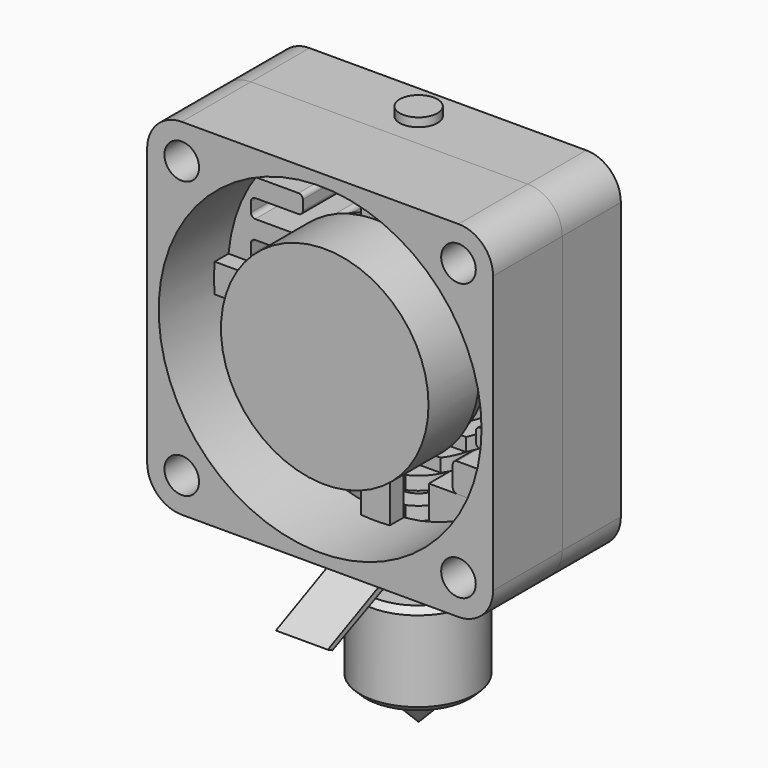
from build123d import *

# Parameters (mm, degrees)
SKETCH_R             = 14
SKETCH_R_2           = 1.5
PAD_DEPTH            = 7.5
PAD001_DEPTH         = 1.5
SKETCH002_R          = 9
PAD002_DEPTH         = 5.5
SKETCH004_R          = 1.5
PAD003_DEPTH         = 6.35
SKETCH005_R          = 1.225
POCKET_DEPTH         = 15.001
PAD004_DEPTH         = 6.35
SKETCH008_W          = 62.371654
SKETCH008_H          = 35.565962
SKETCH008_W_2        = 46.1
SKETCH008_H_2        = 6.35
POCKET001_DEPTH      = 60
POCKET001_DEPTH_BACK = 60
CHAMFER_SIZE         = 0.5
PAD005_DEPTH         = 2.25
PAD005_DEPTH_BACK    = 2.25
SKETCH011_W          = 1.977832
SKETCH011_H          = 8.288762
POCKET002_DEPTH      = 20.115598
SKETCH012_R          = 4.982423
SKETCH012_R_2        = 2.386074
PAD006_DEPTH         = 8
CHAMFER001_SIZE      = 0.5


with BuildPart() as fan:
    # Sketch → Pad (new body)
    with BuildSketch(Plane.XZ):
        with BuildLine():
            Line((-15, -12), (-15, 12))
            ThreePointArc((-12, 15), (-14.12132, 14.12132), (-15, 12))
            Line((-12, 15), (12, 15))
            ThreePointArc((15, 12), (14.12132, 14.12132), (12, 15))
            Line((15, 12), (15, -12))
            ThreePointArc((12, -15), (14.12132, -14.12132), (15, -12))
            Line((12, -15), (-12, -15))
            ThreePointArc((-15, -12), (-14.12132, -14.12132), (-12, -15))
        make_face()
        Circle(SKETCH_R, mode=Mode.SUBTRACT)
        with Locations((-12, 12)):
            Circle(SKETCH_R_2, mode=Mode.SUBTRACT)
        with Locations((12, 12)):
            Circle(SKETCH_R_2, mode=Mode.SUBTRACT)
        with Locations((12, -12)):
            Circle(SKETCH_R_2, mode=Mode.SUBTRACT)
        with Locations((-12, -12)):
            Circle(SKETCH_R_2, mode=Mode.SUBTRACT)
    extrude(amount=PAD_DEPTH)

    # Sketch001 → Pad001 (join)
    with BuildSketch(Plane.XZ):
        with BuildLine():
            ThreePointArc((-8.407586, -1.25), (-6.010408, -6.010408), (-1.25, -8.407586))
            Line((-1.25, -14.75), (-1.25, -8.407586))
            Line((1.25, -14.75), (-1.25, -14.75))
            Line((1.25, -8.407586), (1.25, -14.75))
            ThreePointArc((1.25, -8.407586), (6.010408, -6.010408), (8.407586, -1.25))
            Line((14.75, -1.25), (8.407586, -1.25))
            Line((14.75, 1.25), (14.75, -1.25))
            Line((8.407586, 1.25), (14.75, 1.25))
            ThreePointArc((8.407586, 1.25), (6.010408, 6.010408), (1.25, 8.407586))
            Line((1.25, 14.75), (1.25, 8.407586))
            Line((-1.25, 14.75), (1.25, 14.75))
            Line((-1.25, 8.407586), (-1.25, 14.75))
            ThreePointArc((-1.25, 8.407586), (-6.010408, 6.010408), (-8.407586, 1.25))
            Line((-14.75, 1.25), (-8.407586, 1.25))
            Line((-14.75, -1.25), (-14.75, 1.25))
            Line((-8.407586, -1.25), (-14.75, -1.25))
        make_face()
    extrude(amount=PAD001_DEPTH)

    # Sketch002 (on Face21 of Pad001) → Pad002 (join)
    with BuildSketch(Plane.XZ.offset(1.5)):
        Circle(SKETCH002_R)
    extrude(amount=PAD002_DEPTH)


with BuildPart() as main_body:
    # Sketch004 → Pad003 (new body)
    with BuildSketch(Plane.XZ):
        with BuildLine():
            ThreePointArc((5.5, -14.625), (5.609835, -14.890165), (5.875, -15))
            Line((5.875, -15), (12, -15))
            ThreePointArc((12, -15), (14.12132, -14.12132), (15, -12))
            Line((15, -12), (15, 12))
            ThreePointArc((15, 12), (14.12132, 14.12132), (12, 15))
            Line((12, 15), (0, 15))
            Line((0, 15), (-12, 15))
            ThreePointArc((-12, 15), (-14.12132, 14.12132), (-15, 12))
            Line((-15, 12), (-15, -12))
            ThreePointArc((-15, -12), (-14.12132, -14.12132), (-12, -15))
            Line((-12, -15), (-5.875, -15))
            ThreePointArc((-5.875, -15), (-5.609835, -14.890165), (-5.5, -14.625))
            Line((-5.5, -14.625), (-5.5, -13.375))
            ThreePointArc((-5.5, -13.375), (-5.609835, -13.109835), (-5.875, -13))
            Line((-5.875, -13), (-8.5, -13))
            Line((-8.5, -13), (-8.5, -10.65))
            Line((-8.5, -10.65), (-5.875, -10.65))
            ThreePointArc((-5.875, -10.65), (-5.609835, -10.540165), (-5.5, -10.275))
            Line((-5.5, -10.275), (-5.5, -8.525))
            ThreePointArc((-5.5, -8.525), (-5.609835, -8.259835), (-5.875, -8.15))
            Line((-5.875, -8.15), (-11.625, -8.15))
            ThreePointArc((-11.625, -8.15), (-11.890165, -8.040165), (-12, -7.775))
            Line((-12, -7.775), (-12, -6.925))
            ThreePointArc((-12, -6.925), (-11.890165, -6.659835), (-11.625, -6.55))
            Line((-11.625, -6.55), (-7.875, -6.55))
            ThreePointArc((-7.875, -6.55), (-7.609835, -6.440165), (-7.5, -6.175))
            Line((-7.5, -6.175), (-7.5, -5.325))
            ThreePointArc((-7.5, -5.325), (-7.609835, -5.059835), (-7.875, -4.95))
            Line((-7.875, -4.95), (-11.625, -4.95))
            ThreePointArc((-11.625, -4.95), (-11.890165, -4.840165), (-12, -4.575))
            Line((-12, -4.575), (-12, -3.725))
            ThreePointArc((-12, -3.725), (-11.890165, -3.459835), (-11.625, -3.35))
            Line((-11.625, -3.35), (-7.875, -3.35))
            ThreePointArc((-7.875, -3.35), (-7.609835, -3.240165), (-7.5, -2.975))
            Line((-7.5, -2.975), (-7.5, -2.125))
            ThreePointArc((-7.5, -2.125), (-7.609835, -1.859835), (-7.875, -1.75))
            Line((-7.875, -1.75), (-11.625, -1.75))
            ThreePointArc((-11.625, -1.75), (-11.890165, -1.640165), (-12, -1.375))
            Line((-12, -1.375), (-12, -0.525))
            ThreePointArc((-12, -0.525), (-11.890165, -0.259835), (-11.625, -0.15))
            Line((-11.625, -0.15), (-7.875, -0.15))
            ThreePointArc((-7.875, -0.15), (-7.609835, -0.040165), (-7.5, 0.225))
            Line((-7.5, 0.225), (-7.5, 1.075))
            ThreePointArc((-7.5, 1.075), (-7.609835, 1.340165), (-7.875, 1.45))
            Line((-7.875, 1.45), (-11.625, 1.45))
            ThreePointArc((-11.625, 1.45), (-11.890165, 1.559835), (-12, 1.825))
            Line((-12, 1.825), (-12, 2.675))
            ThreePointArc((-12, 2.675), (-11.890165, 2.940165), (-11.625, 3.05))
            Line((-11.625, 3.05), (-7.875, 3.05))
            ThreePointArc((-7.875, 3.05), (-7.609835, 3.159835), (-7.5, 3.425))
            Line((-7.5, 3.425), (-7.5, 4.275))
            ThreePointArc((-7.5, 4.275), (-7.609835, 4.540165), (-7.875, 4.65))
            Line((-7.875, 4.65), (-11.625, 4.65))
            ThreePointArc((-11.625, 4.65), (-11.890165, 4.759835), (-12, 5.025))
            Line((-12, 5.025), (-12, 5.875))
            ThreePointArc((-12, 5.875), (-11.890165, 6.140165), (-11.625, 6.25))
            Line((-11.625, 6.25), (-7.875, 6.25))
            ThreePointArc((-7.875, 6.25), (-7.609835, 6.359835), (-7.5, 6.625))
            Line((-7.5, 6.625), (-7.5, 7.475))
            ThreePointArc((-7.5, 7.475), (-7.609835, 7.740165), (-7.875, 7.85))
            Line((-7.875, 7.85), (-11.625, 7.85))
            ThreePointArc((-11.625, 7.85), (-11.890165, 7.959835), (-12, 8.225))
            Line((-12, 8.225), (-12, 8.325765))
            ThreePointArc((-12, 8.325765), (-11.830948, 8.800107), (-11.4, 9.060612))
            ThreePointArc((-11.4, 9.060612), (-10.030524, 9.737001), (-9.171573, 11))
            ThreePointArc((-9.171573, 11), (-8.897479, 11.362372), (-8.464466, 11.5))
            Line((-8.464466, 11.5), (0, 11.5))
            Line((0, 11.5), (8.464466, 11.5))
            ThreePointArc((8.464466, 11.5), (8.897479, 11.362372), (9.171573, 11))
            ThreePointArc((9.171573, 11), (10.030524, 9.737001), (11.4, 9.060612))
            ThreePointArc((11.4, 9.060612), (11.830948, 8.800107), (12, 8.325765))
            Line((12, 8.325765), (12, 8.225))
            ThreePointArc((12, 8.225), (11.890165, 7.959835), (11.625, 7.85))
            Line((11.625, 7.85), (7.875, 7.85))
            ThreePointArc((7.875, 7.85), (7.609835, 7.740165), (7.5, 7.475))
            Line((7.5, 7.475), (7.5, 6.625))
            ThreePointArc((7.5, 6.625), (7.609835, 6.359835), (7.875, 6.25))
            Line((7.875, 6.25), (11.625, 6.25))
            ThreePointArc((11.625, 6.25), (11.890165, 6.140165), (12, 5.875))
            Line((12, 5.875), (12, 5.025))
            ThreePointArc((12, 5.025), (11.890165, 4.759835), (11.625, 4.65))
            Line((11.625, 4.65), (7.875, 4.65))
            ThreePointArc((7.875, 4.65), (7.609835, 4.540165), (7.5, 4.275))
            Line((7.5, 4.275), (7.5, 3.425))
            ThreePointArc((7.5, 3.425), (7.609835, 3.159835), (7.875, 3.05))
            Line((7.875, 3.05), (11.625, 3.05))
            ThreePointArc((11.625, 3.05), (11.890165, 2.940165), (12, 2.675))
            Line((12, 2.675), (12, 1.825))
            ThreePointArc((12, 1.825), (11.890165, 1.559835), (11.625, 1.45))
            Line((11.625, 1.45), (7.875, 1.45))
            ThreePointArc((7.875, 1.45), (7.609835, 1.340165), (7.5, 1.075))
            Line((7.5, 1.075), (7.5, 0.225))
            ThreePointArc((7.5, 0.225), (7.609835, -0.040165), (7.875, -0.15))
            Line((7.875, -0.15), (11.625, -0.15))
            ThreePointArc((11.625, -0.15), (11.890165, -0.259835), (12, -0.525))
            Line((12, -0.525), (12, -1.375))
            ThreePointArc((12, -1.375), (11.890165, -1.640165), (11.625, -1.75))
            Line((11.625, -1.75), (7.875, -1.75))
            ThreePointArc((7.875, -1.75), (7.609835, -1.859835), (7.5, -2.125))
            Line((7.5, -2.125), (7.5, -2.975))
            ThreePointArc((7.5, -2.975), (7.609835, -3.240165), (7.875, -3.35))
            Line((7.875, -3.35), (11.625, -3.35))
            ThreePointArc((11.625, -3.35), (11.890165, -3.459835), (12, -3.725))
            Line((12, -3.725), (12, -4.575))
            ThreePointArc((12, -4.575), (11.890165, -4.840165), (11.625, -4.95))
            Line((11.625, -4.95), (7.875, -4.95))
            ThreePointArc((7.875, -4.95), (7.609835, -5.059835), (7.5, -5.325))
            Line((7.5, -5.325), (7.5, -6.175))
            ThreePointArc((7.5, -6.175), (7.609835, -6.440165), (7.875, -6.55))
            Line((7.875, -6.55), (11.625, -6.55))
            ThreePointArc((11.625, -6.55), (11.890165, -6.659835), (12, -6.925))
            Line((12, -6.925), (12, -7.775))
            ThreePointArc((12, -7.775), (11.890165, -8.040165), (11.625, -8.15))
            Line((11.625, -8.15), (5.875, -8.15))
            ThreePointArc((5.875, -8.15), (5.609835, -8.259835), (5.5, -8.525))
            Line((5.5, -8.525), (5.5, -10.275))
            ThreePointArc((5.5, -10.275), (5.609835, -10.540165), (5.875, -10.65))
            Line((5.875, -10.65), (8.5, -10.65))
            Line((8.5, -10.65), (8.5, -13))
            Line((8.5, -13), (5.875, -13))
            ThreePointArc((5.875, -13), (5.609835, -13.109835), (5.5, -13.375))
            Line((5.5, -13.375), (5.5, -14.625))
        make_face()
        with Locations((-12, 12)):
            Circle(SKETCH004_R, mode=Mode.SUBTRACT)
        with Locations((12, 12)):
            Circle(SKETCH004_R, mode=Mode.SUBTRACT)
        with Locations((-12, -12)):
            Circle(SKETCH004_R, mode=Mode.SUBTRACT)
        with Locations((12, -12)):
            Circle(SKETCH004_R, mode=Mode.SUBTRACT)
    extrude(amount=-PAD003_DEPTH)

    # Sketch005 → Pocket (cut, through all)
    with BuildSketch(Plane.XY):
        with Locations((0, 3.175)):
            Circle(SKETCH005_R)
    extrude(amount=POCKET_DEPTH, mode=Mode.SUBTRACT)


with BuildPart() as obj1:
    # Sketch006 → Pad004 (new body)
    with BuildSketch(Plane.XZ):
        Polygon((5.577357, -17.975067), (0, -17.975067), (-5.577357, -17.975067), (-5.577357, -12.999446), (-8.457252, -12.999446), (-8.457252, -10.649446), (-3.426464, -10.649446), (-3.426464, -15.25), (-2.33543, -15.25), (-2.33543, -16.318716), (2.33543, -16.318716), (2.33543, -15.25), (3.426464, -15.25), (3.426464, -10.649446), (8.457252, -10.649446), (8.457252, -12.999446), (5.577357, -12.999446), align=None)
    extrude(amount=-PAD004_DEPTH)


with BuildPart() as main_heatsink:
    # Sketch007 → Revolution (revolve)
    with BuildSketch(Plane.XZ):
        Polygon((3.175, -15.614579), (3.175, -14.850349), (1.710205, -14.850349), (1.710205, -14.097097), (3.479377, -14.097097), (3.479377, -12.947097), (1.661082, -12.947097), (1.661082, -11.797097), (3.479377, -11.797097), (3.479377, -10.647097), (1.661082, -10.647097), (1.661082, -9.497097), (5.469544, -9.497097), (5.469544, -8.347097), (1.661082, -8.347097), (1.661082, -7.197097), (7.369716, -7.197097), (7.369716, -6.047097), (1.661082, -6.047097), (1.661082, -4.897097), (7.392239, -4.897097), (7.392239, -3.747097), (1.661082, -3.747097), (1.661082, -2.597097), (7.397455, -2.597097), (7.397455, -1.447097), (1.661082, -1.447097), (1.661082, 10.269934), (4.812619, 10.269934), (4.812619, 11.19169), (1.63942, 11.19169), (1.63942, 15.752458), (0, 15.752458), (0, -15.614579), align=None)
    revolve(axis=Axis((0, 0, 0), (0, 0, 1)))

    # Sketch008 → Pocket001 (cut, two sides)
    with BuildSketch(Plane.XY) as pocket001_sk:
        Rectangle(SKETCH008_W, SKETCH008_H)
        Rectangle(SKETCH008_W_2, SKETCH008_H_2, mode=Mode.SUBTRACT)
    extrude(amount=-POCKET001_DEPTH, mode=Mode.SUBTRACT)
    extrude(pocket001_sk.sketch, amount=POCKET001_DEPTH_BACK, mode=Mode.SUBTRACT)


with BuildPart() as main_heatsink_1:
    # Body003 placement: moved
    add(main_heatsink.part.moved(Location((0, 3.175, 0))))


with BuildPart() as body:
    # Sketch009 → Revolution001 (revolve)
    with BuildSketch(Plane.XZ):
        Polygon((0, -31.255568), (2.3, -28.902386), (2.3, -19.312462), (1.5, -19.312462), (1.5, -17.879707), (2.453806, -17.879707), (2.453806, -16.280638), (1.500748, -16.280638), (1.500748, -15.680522), (2.453806, -15.680522), (2.453806, -13.683879), (1.112467, -13.683879), (1.112467, -1.970417), (0, -1.970417), align=None)
    revolve(axis=Axis((0, 0, 0), (0, 0, 1)))

    # Chamfer
    chamfer_edges = [body.edges().sort_by_distance(p)[0] for p in [
        (-2.3, 0, -19.312462),
    ]]
    chamfer(chamfer_edges, length=CHAMFER_SIZE)


with BuildPart() as body_1:
    # Body004 placement: moved
    add(body.part.moved(Location((0, 3.175, 0))))


with BuildPart() as body005:
    # Sketch010 → Pad005 (new body, two sides)
    with BuildSketch(Plane.YZ) as pad005_sk:
        Polygon((6.363476, -16.254277), (5.266292, -16.254277), (4.74664, -16.061829), (1.606281, -16.061829), (0.955437, -16.137233), (0.007265, -16.147446), (-8.983295, -20.114598), (-9.482342, -19.865074), (-0.441877, -15.698305), (0.86803, -15.687641), (1.545324, -15.582339), (4.74664, -15.582339), (5.28571, -15.769658), (6.38246, -15.892065), align=None)
    extrude(amount=PAD005_DEPTH)
    extrude(pad005_sk.sketch, amount=-PAD005_DEPTH_BACK)

    # Sketch011 → Pocket002 (cut, through all)
    with BuildSketch(Plane.XY):
        with Locations((0, 2.532696)):
            Rectangle(SKETCH011_W, SKETCH011_H)
    extrude(amount=-POCKET002_DEPTH, mode=Mode.SUBTRACT)


with BuildPart() as body006:
    # Sketch012 → Pad006 (new body)
    with BuildSketch(Plane.XY):
        with Locations((0, 3.096322)):
            Circle(SKETCH012_R)
        with Locations((0, 3.096322)):
            Circle(SKETCH012_R_2, mode=Mode.SUBTRACT)
    extrude(amount=-PAD006_DEPTH)

    # Chamfer001
    chamfer001_edges = [body006.edges().sort_by_distance(p)[0] for p in [
        (-4.982423, 3.096322, 0),
        (-4.982423, 3.096322, -8),
    ]]
    chamfer(chamfer001_edges, length=CHAMFER001_SIZE)


with BuildPart() as body006_1:
    # Body006 placement: moved
    add(body006.part.moved(Location((0, 0, -20))))


solid = Compound([fan.part, main_body.part, obj1.part, main_heatsink_1.part, body_1.part, body005.part, body006_1.part])
